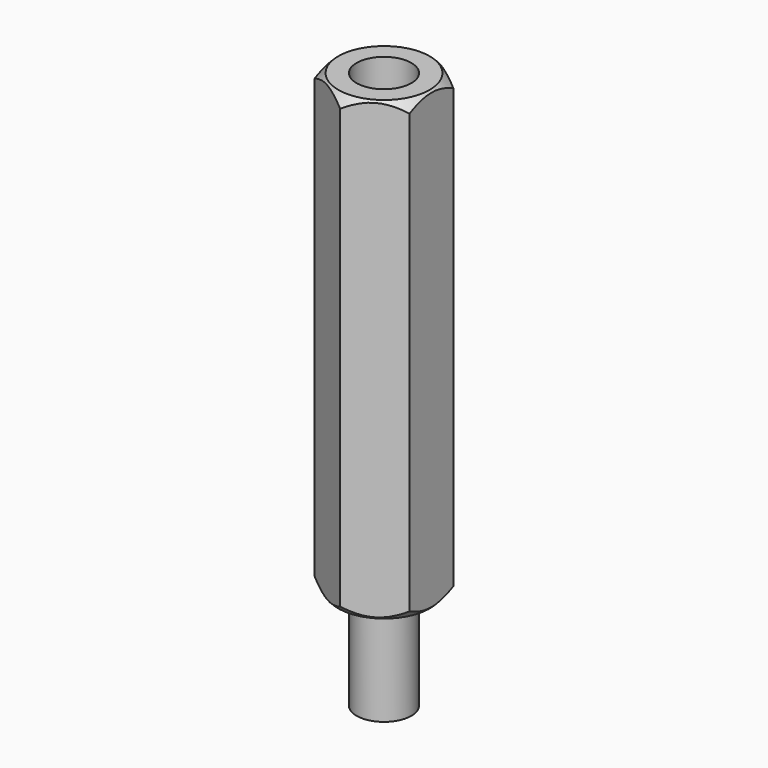
from build123d import *

# Parameters (mm, degrees)
PAD_DEPTH    = 12.5
SKETCH001_R  = 1.5
POCKET_DEPTH = 15
SKETCH002_R  = 1.5
PAD001_DEPTH = 5.5


with BuildPart() as body001:
    # Sketch003 → Revolution (revolve)
    with BuildSketch(Plane.YZ):
        Polygon((2, 13), (5, 13), (5, -13), (2, -13), (3.883364, -11.116636), (3.883364, 11.116636), align=None)
    revolve(axis=Axis((0, 0, 0), (0, 0, 1)))


with BuildPart() as cut:
    # Sketch → Pad (new body, symmetric)
    with BuildSketch(Plane.XY):
        Polygon((2.6, 1.501111), (0, 3.002221), (-2.6, 1.501111), (-2.6, -1.501111), (0, -3.002221), (2.6, -1.501111), align=None)
    extrude(amount=PAD_DEPTH, both=True)

    # Sketch001 (on Face8 of Pad) → Pocket (cut)
    with BuildSketch(Plane.XY.offset(12.5)):
        Circle(SKETCH001_R)
    extrude(amount=-POCKET_DEPTH, mode=Mode.SUBTRACT)

    # Sketch002 (on Face4 of Pocket) → Pad001 (join)
    with BuildSketch(Plane(origin=(0, 0, -12.5), x_dir=(1, 0, 0), z_dir=(0, 0, -1))):
        Circle(SKETCH002_R)
    extrude(amount=PAD001_DEPTH)

    # Cut: cut Body001
    add(body001.part, mode=Mode.SUBTRACT)


solid = cut.part
